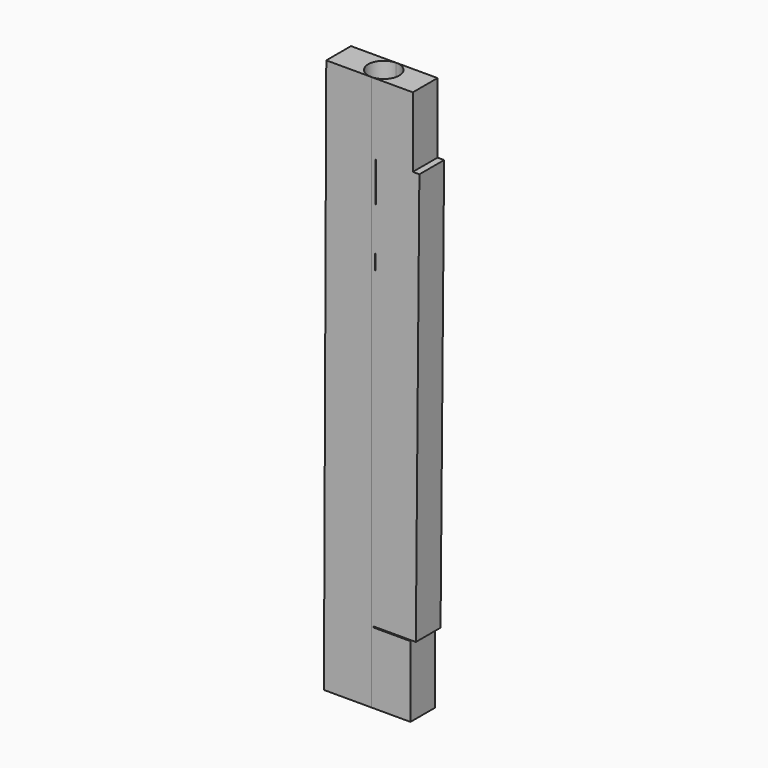
from build123d import *

# Parameters (mm, degrees)
F3_DEPTH = 6.35
F4_DEPTH = 6.35
F6_DEPTH = 114.041717


with BuildPart() as f3:
    # F1 (on face) → F3 (new body)
    with BuildSketch(Plane.XZ):
        Polygon((75.136469, 57.020359), (57.356469, 57.020359), (57.15, 8.707022), (57.15, -57.020359), (74.649112, -57.020359), (74.649112, -42.415359), (67.029112, -42.415359), (67.516469, 42.415359), (75.136469, 42.415359), align=None)
        Polygon((75.136469, 57.020359), (57.356469, 57.020359), (56.869112, -57.020359), (74.649112, -57.020359), (74.649112, -42.415359), (67.029112, -42.415359), (67.516469, 42.415359), (75.136469, 42.415359), align=None)
    extrude(amount=F3_DEPTH)

    # F2 (on face) → F4 (join)
    with BuildSketch(Plane.XZ):
        Polygon((76.483287, 42.627829), (67.593287, 42.627829), (66.864709, -42.205043), (75.754709, -42.205043), align=None)
    extrude(amount=F4_DEPTH)

    # F5 (on face) → F6 (cut, through all)
    with BuildSketch(Plane.XY.offset(57.020359)):
        with BuildLine():
            ThreePointArc((66.625118, -6.35), (68.870182, -5.420064), (69.800118, -3.175))
            ThreePointArc((69.800118, -3.175), (68.870182, -0.929936), (66.625118, 0))
            ThreePointArc((66.625118, 0), (63.450118, -3.175), (66.625118, -6.35))
        make_face()
    extrude(amount=-F6_DEPTH, mode=Mode.SUBTRACT)


solid = f3.part
